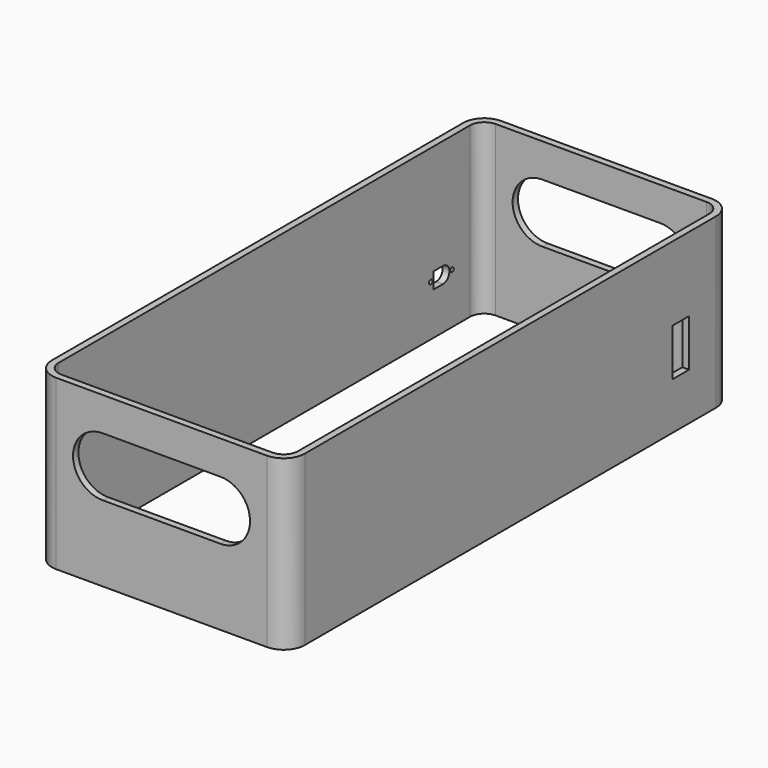
from build123d import *

# Parameters (mm, degrees)
F1_DEPTH  = 100
F3_DEPTH  = 330.001
F4_W      = 12.2
F4_H      = 28
F5_DEPTH  = 25
F6_DEPTH  = 6
F7_DEPTH  = 6
F9_DEPTH  = 4
F8_R      = 1.25
F10_DEPTH = 25


with BuildPart() as f1:
    # F0 (on Top) → F1 (new body)
    with BuildSketch(Plane.XY):
        with BuildLine():
            ThreePointArc((0, 12.5), (3.6611652352, 3.6611652352), (12.5, 0))
            Line((12.5, 0), (137.5, 0))
            ThreePointArc((137.5, 0), (146.3388347648, 3.6611652352), (150, 12.5))
            Line((150, 12.5), (150, 317.5))
            ThreePointArc((150, 317.5), (146.3388347648, 326.3388347648), (137.5, 330))
            Line((137.5, 330), (12.5, 330))
            ThreePointArc((12.5, 330), (3.6611652352, 326.3388347648), (0, 317.5))
            Line((0, 317.5), (0, 12.5))
        make_face()
        with BuildLine():
            ThreePointArc((12.5, 4), (6.4895923599, 6.4895923599), (4, 12.5))
            Line((4, 12.5), (4, 317.5))
            ThreePointArc((4, 317.5), (6.4895923599, 323.5104076401), (12.5, 326))
            Line((12.5, 326), (137.5, 326))
            ThreePointArc((137.5, 326), (143.5104076401, 323.5104076401), (146, 317.5))
            Line((146, 317.5), (146, 12.5))
            ThreePointArc((146, 12.5), (143.5104076401, 6.4895923599), (137.5, 4))
            Line((137.5, 4), (12.5, 4))
        make_face(mode=Mode.SUBTRACT)
    extrude(amount=F1_DEPTH)

    # F2 (on face) → F3 (cut, through all)
    with BuildSketch(Plane.XZ):
        with BuildLine():
            Line((109.958435546, 80), (40, 80))
            ThreePointArc((40, 80), (22.5008510571, 62.3274129951), (40.3451572234, 45.0034041456))
            Line((40.3451572234, 45.0034041456), (109.9991571426, 45.0000493805))
            ThreePointArc((109.9991571426, 45.0000493805), (127.4999999949, 62.4996279315), (110, 80.0000493602))
            ThreePointArc((110, 80.0000493602), (109.9792177583, 80.0000370201), (109.958435546, 80))
        make_face()
    extrude(amount=-F3_DEPTH, mode=Mode.SUBTRACT)

    # F4 (on face) → F5 (cut)
    with BuildSketch(Plane.YZ.offset(150)):
        with Locations((291.4, 36)):
            Rectangle(F4_W, F4_H)
    extrude(amount=-F5_DEPTH, mode=Mode.SUBTRACT)

    # F6 (add): a face of the model
    f6_faces = [f1.faces().sort_by_distance(p)[0] for p in [
        (148, 291.4, 22),
    ]]
    extrude(f6_faces, amount=F6_DEPTH)

    # F7 (cut): a face of the model
    f7_faces = [f1.faces().sort_by_distance(p)[0] for p in [
        (148, 291.4, 50),
    ]]
    extrude(f7_faces, amount=-F7_DEPTH, mode=Mode.SUBTRACT)

    # F8 (on face) → F9 (cut, through all)
    with BuildSketch(Plane(origin=(0, 0, 0), x_dir=(0, -1, 0), z_dir=(-1, 0, 0))):
        with BuildLine():
            Line((-290.5, 34.75), (-297.5, 34.75))
            ThreePointArc((-297.5, 34.75), (-302.25, 30), (-297.5, 25.25))
            Line((-297.5, 25.25), (-290.5, 25.25))
            Line((-290.5, 25.25), (-290.5, 34.75))
        make_face()
    extrude(amount=-F9_DEPTH, mode=Mode.SUBTRACT)

    # F8 (on face) → F10 (cut)
    with BuildSketch(Plane(origin=(0, 0, 0), x_dir=(0, -1, 0), z_dir=(-1, 0, 0))):
        with BuildLine():
            Line((-290.5, 34.75), (-297.5, 34.75))
            ThreePointArc((-297.5, 34.75), (-302.25, 30), (-297.5, 25.25))
            Line((-297.5, 25.25), (-290.5, 25.25))
            Line((-290.5, 25.25), (-290.5, 34.75))
        make_face()
        with Locations((-304.25, 30)):
            Circle(F8_R)
        with Locations((-288.35, 30)):
            Circle(F8_R)
    extrude(amount=-F10_DEPTH, mode=Mode.SUBTRACT)


solid = f1.part
